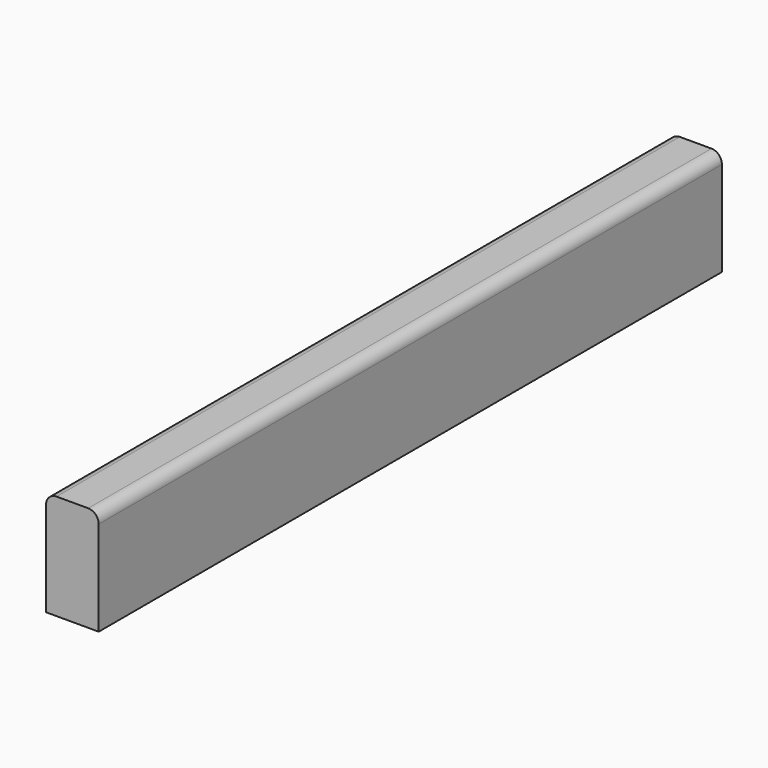
from build123d import *

# Parameters (mm, degrees)
F1_DEPTH = 370


with BuildPart() as f1:
    # F0 (on Front) → F1 (new body)
    with BuildSketch(Plane.XZ):
        with BuildLine():
            Line((0, 45), (0, 0))
            Line((0, 0), (25, 0))
            Line((25, 0), (25, 45))
            ThreePointArc((25, 45), (23.535534, 48.535534), (20, 50))
            Line((20, 50), (5, 50))
            ThreePointArc((5, 50), (1.464466, 48.535534), (0, 45))
        make_face()
    extrude(amount=F1_DEPTH)


solid = f1.part
